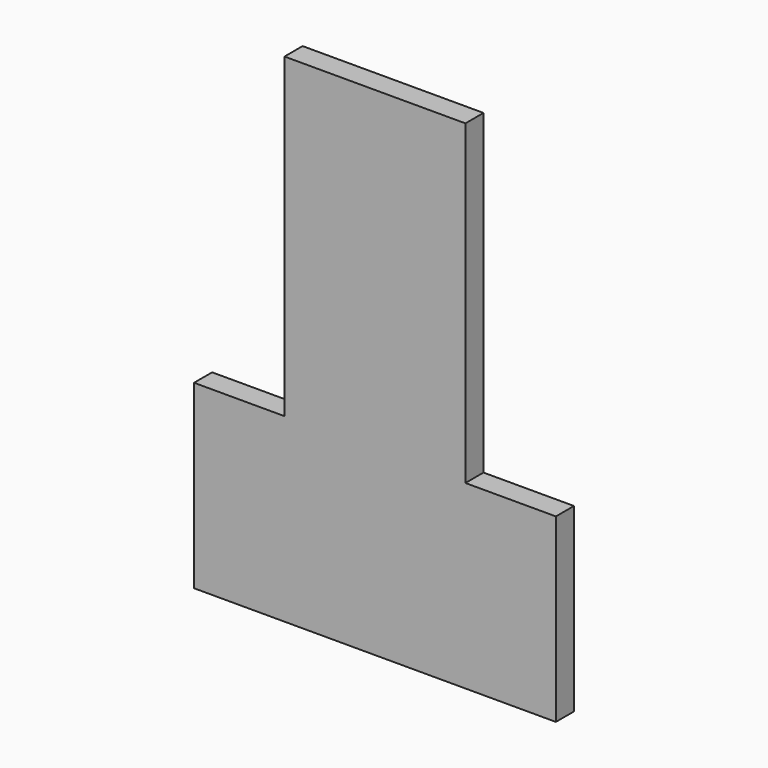
from build123d import *

# Parameters (mm, degrees)
F0_W     = 25.4
F0_H     = 50.8
F1_DEPTH = 6.35


with BuildPart() as f1:
    # F0 (on Front) → F1 (new body)
    with BuildSketch(Plane.XZ):
        Polygon((25.4, 69.85), (-25.4, 69.85), (-25.4, -19.05), (-25.4, -69.85), (25.4, -69.85), (25.4, -19.05), align=None)
        with Locations((-38.1, -44.45)):
            Rectangle(F0_W, F0_H)
        with Locations((38.1, -44.45)):
            Rectangle(F0_W, F0_H)
    extrude(amount=F1_DEPTH)


solid = f1.part
